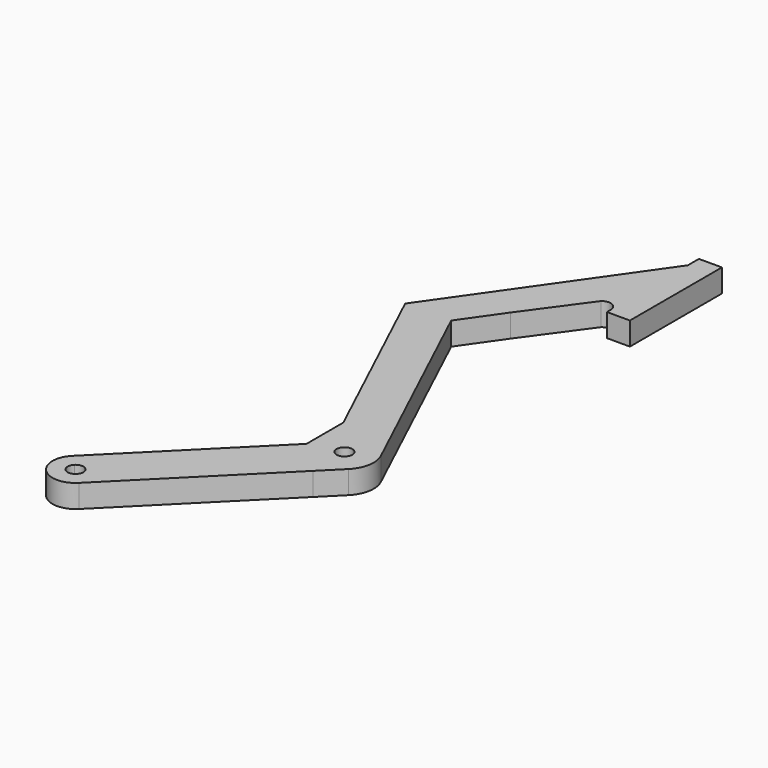
from build123d import *

# Parameters (mm, degrees)
F0_R     = 1.7
F1_DEPTH = 5


with BuildPart() as f1:
    # F0 (on Top) → F1 (new body)
    with BuildSketch(Plane.XY):
        with BuildLine():
            Line((33.642043, 109.531558), (28.642043, 109.531558))
            Line((28.642043, 109.531558), (28.642043, 106.531558))
            Line((28.642043, 106.531558), (-0.036779, 65.573956))
            Line((-0.036779, 65.573956), (19.098496, 24.845081))
            Line((19.098496, 24.845081), (19.098496, 14.845081))
            Line((19.098496, 14.845081), (26.169564, 7.774013))
            Line((26.169564, 7.774013), (30.465285, 12.069734))
            ThreePointArc((30.465285, 12.069734), (32.230269, 15.466208), (31.722454, 19.260062))
            Line((31.722454, 19.260062), (9.963221, 65.573956))
            Line((9.963221, 65.573956), (15.967054, 74.148317))
            Line((15.967054, 74.148317), (25.332929, 87.043583))
            ThreePointArc((25.332929, 87.043583), (27.473238, 87.350655), (28.642043, 85.531558))
            Line((28.642043, 85.531558), (28.642043, 84.531558))
            Line((28.642043, 84.531558), (33.642043, 84.531558))
            Line((33.642043, 84.531558), (33.642043, 109.531558))
        make_face()
        with Locations((25.975157, 16.559862)):
            Circle(F0_R, mode=Mode.SUBTRACT)
        with BuildLine():
            Line((26.169564, 7.774013), (19.098496, 14.845081))
            Line((19.098496, 14.845081), (-9.185775, -13.439191))
            Line((-9.185775, -13.439191), (-6.852323, -15.772643))
            ThreePointArc((-6.852323, -15.772643), (-4.99968, -15.404129), (-3.950241, -16.974725))
            ThreePointArc((-3.950241, -16.974725), (-4.079646, -17.625286), (-4.44816, -18.176806))
            Line((-4.44816, -18.176806), (-2.114708, -20.510258))
            Line((-2.114708, -20.510258), (26.169564, 7.774013))
        make_face()
        with BuildLine():
            Line((-6.852323, -15.772643), (-9.185775, -13.439191))
            ThreePointArc((-9.185775, -13.439191), (-9.185775, -20.510258), (-2.114708, -20.510258))
            Line((-2.114708, -20.510258), (-4.44816, -18.176806))
            ThreePointArc((-4.44816, -18.176806), (-6.852323, -18.176806), (-6.852323, -15.772643))
        make_face()
    extrude(amount=F1_DEPTH)


solid = f1.part
